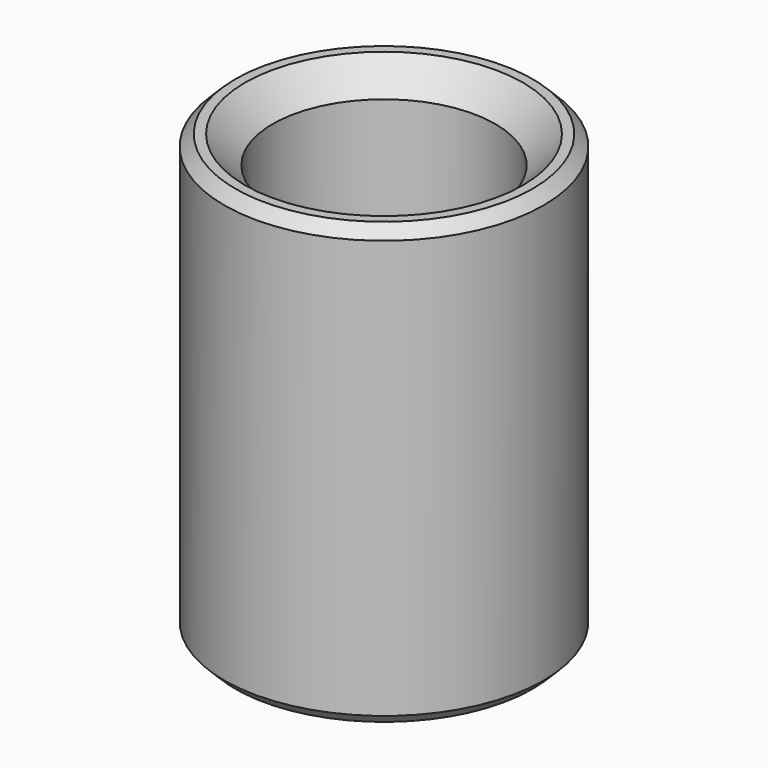
from build123d import *

# Parameters (mm, degrees)
F0_R     = 29
F0_R_2   = 20.25
F1_DEPTH = 40
F2_SIZE  = 5
F3_SIZE  = 2
F4_SIZE  = 2
F5_SIZE  = 5


with BuildPart() as f1:
    # F0 (on Top) → F1 (new body, symmetric)
    with BuildSketch(Plane.XY):
        Circle(F0_R)
        Circle(F0_R_2, mode=Mode.SUBTRACT)
    extrude(amount=F1_DEPTH, both=True)

    # F2
    f2_edges = [f1.edges().sort_by_distance(p)[0] for p in [
        (-20.25, 0, 40),
    ]]
    chamfer(f2_edges, length=F2_SIZE)

    # F3
    f3_edges = [f1.edges().sort_by_distance(p)[0] for p in [
        (-29, 0, -40),
    ]]
    chamfer(f3_edges, length=F3_SIZE)

    # F4
    f4_edges = [f1.edges().sort_by_distance(p)[0] for p in [
        (-29, 0, 40),
    ]]
    chamfer(f4_edges, length=F4_SIZE)

    # F5
    f5_edges = [f1.edges().sort_by_distance(p)[0] for p in [
        (-20.25, 0, -40),
    ]]
    chamfer(f5_edges, length=F5_SIZE)


solid = f1.part
